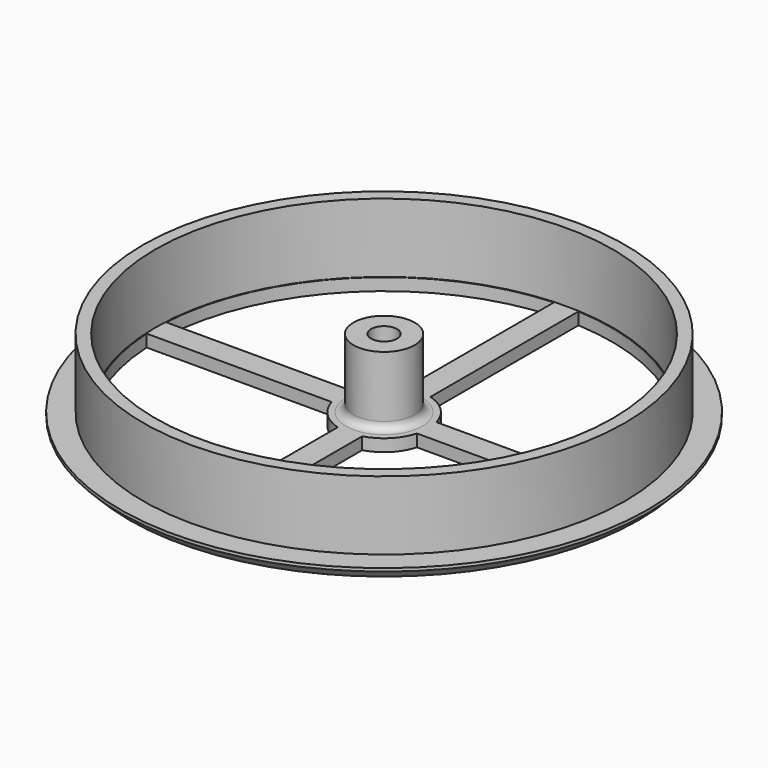
from build123d import *

# Parameters (mm, degrees)
POCKET001_DEPTH       = 197.910551
POLARPATTERN001_COUNT = 4
HOLE001_D             = 3.4
HOLE001_CBORE_D       = 6.1
HOLE001_CBORE_DEPTH   = 3.6


with BuildPart() as part:
    # Sketch019 → Revolution001 (revolve)
    with BuildSketch(Plane.XZ):
        with BuildLine():
            Line((31.5, 9), (31.5, 0))
            Line((31.5, 0), (34.5, 0))
            Line((34.5, 0), (34.5, -0.4))
            Line((34.5, -0.4), (33.3, -1.6))
            Line((33.3, -1.6), (0, -1.6))
            Line((0, -1.6), (0, 9))
            Line((0, 9), (4, 9))
            Line((4, 9), (4, 1))
            ThreePointArc((4, 1), (4.292893, 0.292893), (5, 0))
            Line((5, 0), (29.9, 0))
            Line((29.9, 0), (29.9, 9))
            Line((29.9, 9), (31.5, 9))
        make_face()
    revolve(axis=Axis((0, 0, 0), (0, 0, 1)))

    # Sketch020 → Pocket001 (cut, through all)
    with BuildSketch(Plane.XY):
        with BuildLine():
            ThreePointArc((29.757016, 1.6), (21.071782, 21.071782), (1.6, 29.757016))
            Line((1.6, 29.757016), (1.6, 5.574944))
            ThreePointArc((5.574944, 1.6), (4.101219, 4.101219), (1.6, 5.574944))
            Line((5.574944, 1.6), (29.757016, 1.6))
        make_face()
    pocket001 = extrude(amount=-POCKET001_DEPTH, mode=Mode.SUBTRACT)

    # PolarPattern001: Pocket001 ×4 about axis
    polarpattern001_axis = Axis((0, 0, 0), (0, 0, 1))
    for i in range(1, POLARPATTERN001_COUNT):
        add(pocket001.rotate(polarpattern001_axis, i * 360 / POLARPATTERN001_COUNT), mode=Mode.SUBTRACT)

    # Hole001 (through all)
    with Locations(Plane(origin=(0, 0, -1.6), x_dir=(1, 0, 0), z_dir=(0, 0, -1))):
        with Locations((0, 0)):
            CounterBoreHole(HOLE001_D / 2, HOLE001_CBORE_D / 2, HOLE001_CBORE_DEPTH)


with BuildPart() as part_1:
    # Body001 placement: moved
    add(part.part.moved(Location((0, 0, -19))))


solid = part_1.part
